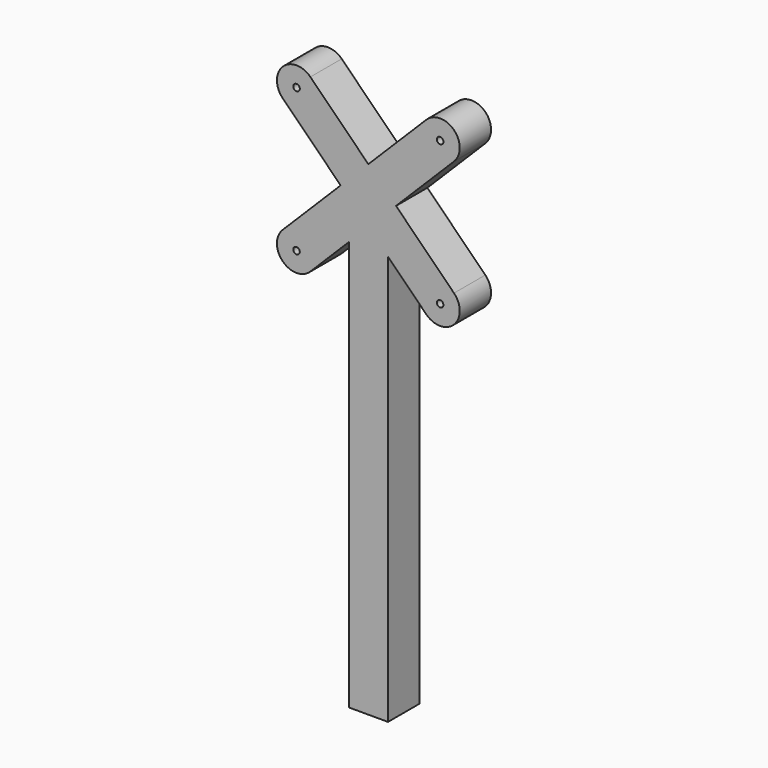
from build123d import *

# Parameters (mm, degrees)
F0_R     = 0.5
F1_DEPTH = 6


with BuildPart() as f1:
    # F0 (on Front) → F1 (new body)
    with BuildSketch(Plane.XZ):
        with BuildLine():
            Line((-3, 62.770455), (-3, 0))
            Line((-3, 0), (3, 0))
            Line((3, 0), (3, 62.744264))
            Line((3, 62.744264), (8.865584, 56.87868))
            ThreePointArc((8.865584, 56.87868), (13.108225, 56.87868), (13.108225, 61.12132))
            Line((13.108225, 61.12132), (4.229545, 70))
            Line((4.229545, 70), (13.108225, 78.87868))
            ThreePointArc((13.108225, 78.87868), (13.108225, 83.12132), (8.865584, 83.12132))
            Line((8.865584, 83.12132), (-0.013096, 74.242641))
            Line((-0.013096, 74.242641), (-8.891775, 83.12132))
            ThreePointArc((-8.891775, 83.12132), (-13.134416, 83.12132), (-13.134416, 78.87868))
            Line((-13.134416, 78.87868), (-4.255736, 70))
            Line((-4.255736, 70), (-13.134416, 61.12132))
            ThreePointArc((-13.134416, 61.12132), (-13.134416, 56.87868), (-8.891775, 56.87868))
            Line((-8.891775, 56.87868), (-3, 62.770455))
        make_face()
        with Locations((-11.013096, 59)):
            Circle(F0_R, mode=Mode.SUBTRACT)
        with Locations((-11.013096, 81)):
            Circle(F0_R, mode=Mode.SUBTRACT)
        with Locations((10.986904, 59)):
            Circle(F0_R, mode=Mode.SUBTRACT)
        with Locations((10.986904, 81)):
            Circle(F0_R, mode=Mode.SUBTRACT)
        with BuildLine():
            Line((-3, 62.770455), (-3, 0))
            Line((-3, 0), (3, 0))
            Line((3, 0), (3, 62.744264))
            Line((3, 62.744264), (8.865584, 56.87868))
            ThreePointArc((8.865584, 56.87868), (13.108225, 56.87868), (13.108225, 61.12132))
            Line((13.108225, 61.12132), (4.229545, 70))
            Line((4.229545, 70), (13.108225, 78.87868))
            ThreePointArc((13.108225, 78.87868), (13.108225, 83.12132), (8.865584, 83.12132))
            Line((8.865584, 83.12132), (-0.013096, 74.242641))
            Line((-0.013096, 74.242641), (-8.891775, 83.12132))
            ThreePointArc((-8.891775, 83.12132), (-13.134416, 83.12132), (-13.134416, 78.87868))
            Line((-13.134416, 78.87868), (-4.255736, 70))
            Line((-4.255736, 70), (-13.134416, 61.12132))
            ThreePointArc((-13.134416, 61.12132), (-13.134416, 56.87868), (-8.891775, 56.87868))
            Line((-8.891775, 56.87868), (-3, 62.770455))
        make_face()
        with Locations((-11.013096, 59)):
            Circle(F0_R, mode=Mode.SUBTRACT)
        with Locations((-11.013096, 81)):
            Circle(F0_R, mode=Mode.SUBTRACT)
        with Locations((10.986904, 59)):
            Circle(F0_R, mode=Mode.SUBTRACT)
        with Locations((10.986904, 81)):
            Circle(F0_R, mode=Mode.SUBTRACT)
    extrude(amount=F1_DEPTH)


solid = f1.part
